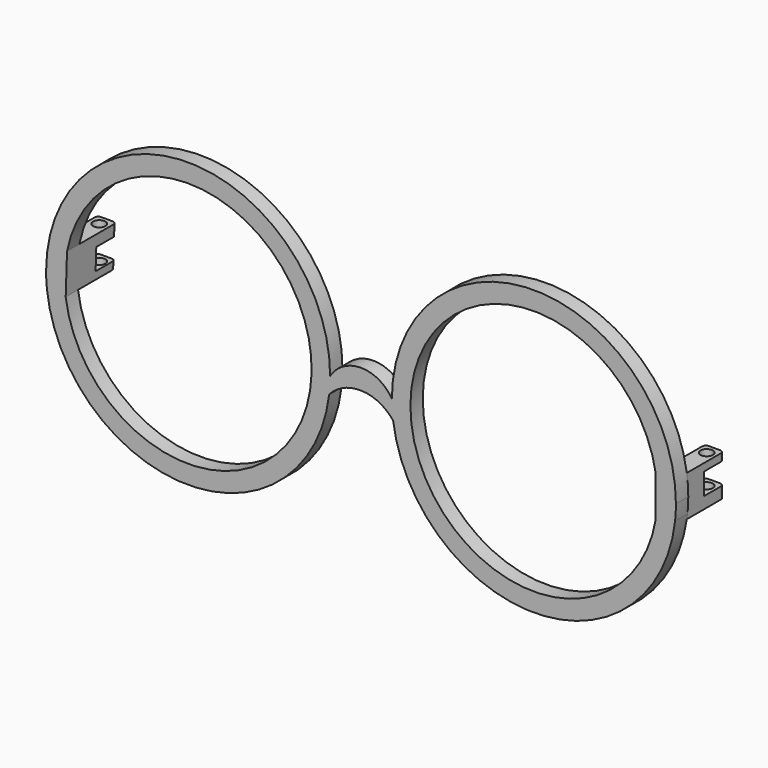
from build123d import *

# Parameters (mm, degrees)
F1_DEPTH = 3.175
F2_W     = 3.8559212309
F2_H     = 8.382
F3_DEPTH = 12.7
F4_W     = 5.08
F4_H     = 4.445
F5_DEPTH = 129.2387778288
F6_R     = 1.27
F7_DEPTH = 33.402
F8_R     = 1.27
F9_DEPTH = 34.2152275192
F10_R    = 0.762
F11_R    = 0.762


with BuildPart() as f1:
    # F0 (on Front) → F1 (new body)
    with BuildSketch(Plane.XZ):
        with BuildLine():
            ThreePointArc((-18.1050305715, -3.3733308155), (-17.9584921143, -1.6894938048), (-17.9095913851, 0))
            ThreePointArc((-17.9095913851, 0), (-47.1195913851, 29.21), (-76.3295913851, 0))
            Line((-76.3295913851, 0), (-72.5195913851, 0))
            ThreePointArc((-72.5195913851, 0), (-47.1195913851, 25.4), (-21.7195913851, 0))
            ThreePointArc((-21.7195913851, 0), (-45.5289694065, -25.3501463846), (-72.320372623, -3.175))
            Line((-72.320372623, -3.175), (-76.1565243327, -3.175))
            ThreePointArc((-76.1565243327, -3.175), (-47.2193857045, -29.2098295287), (-18.1050305715, -3.3733308155))
        make_face()
        with BuildLine():
            ThreePointArc((-5.2095913851, 0), (-11.5595913851, 3.5657379151), (-17.9095913851, 0))
            ThreePointArc((-17.9095913851, 0), (-17.9584921143, -1.6894938048), (-18.1050305715, -3.3733308155))
            ThreePointArc((-18.1050305715, -3.3733308155), (-11.412472054, -0.5582261258), (-4.9519179152, -3.871290288))
            ThreePointArc((-4.9519179152, -3.871290288), (-5.1451018279, -1.9399280986), (-5.2095913851, 0))
        make_face()
        with BuildLine():
            Line((-72.5195913851, 0), (-76.3295913851, 0))
            ThreePointArc((-76.3295913851, 0), (-76.2862925304, -1.589856692), (-76.1565243327, -3.175))
            Line((-76.1565243327, -3.175), (-72.320372623, -3.175))
            ThreePointArc((-72.320372623, -3.175), (-72.4697377697, -1.5906219786), (-72.5195913851, 0))
        make_face()
        with BuildLine():
            ThreePointArc((53.2104086149, 0), (24.0004086149, 29.21), (-5.2095913851, 0))
            ThreePointArc((-5.2095913851, 0), (-5.1451018279, -1.9399280986), (-4.9519179152, -3.871290288))
            ThreePointArc((-4.9519179152, -3.871290288), (24.3511144785, -29.2078945732), (53.0373415624, -3.175))
            Line((53.0373415624, -3.175), (49.2011898528, -3.175))
            ThreePointArc((49.2011898528, -3.175), (-1.3497377697, 1.5906219786), (49.4004086149, 0))
            Line((49.4004086149, 0), (53.2104086149, 0))
        make_face()
        with BuildLine():
            ThreePointArc((53.0373415624, -3.175), (53.1671097602, -1.589856692), (53.2104086149, 0))
            Line((53.2104086149, 0), (49.4004086149, 0))
            ThreePointArc((49.4004086149, 0), (49.3505549995, -1.5906219786), (49.2011898528, -3.175))
            Line((49.2011898528, -3.175), (53.0373415624, -3.175))
        make_face()
    extrude(amount=F1_DEPTH)

    # F2 (on face) → F3 (join)
    with BuildSketch(Plane.XZ.offset(3.175)):
        with Locations((50.9802258282, 0)):
            Rectangle(F2_W, F2_H)
        Polygon((-75.8977394655, 5.0042275192), (-76.1340230485, -3.3744414722), (-72.2945916673, -3.3733308155), (-72.0217540811, 5.0042275192), align=None)
    extrude(amount=-F3_DEPTH)

    # F4 (on face) → F5 (cut, through all)
    with BuildSketch(Plane.YZ.offset(52.9081864437)):
        with Locations((6.985, 0.4219774121)):
            Rectangle(F4_W, F4_H)
    extrude(amount=-F5_DEPTH, mode=Mode.SUBTRACT)

    # F6 (on face) → F7 (cut, through all)
    with BuildSketch(Plane.XY.offset(4.191)):
        with Locations((51.0031864437, 7.4931297261)):
            Circle(F6_R)
    extrude(amount=-F7_DEPTH, mode=Mode.SUBTRACT)

    # F8 (on face) → F9 (cut, through all)
    with BuildSketch(Plane.XY.offset(5.0042275192)):
        with Locations((-73.9267540811, 7.4932678616)):
            Circle(F8_R)
    extrude(amount=-F9_DEPTH, mode=Mode.SUBTRACT)

    # F10
    f10_edges = [f1.edges().sort_by_distance(p)[0] for p in [
        (49.052265, 9.525, 3.417739),
        (52.908186, 9.525, 3.417739),
        (52.908186, 9.525, -2.995761),
        (49.052265, 9.525, -2.995761),
    ]]
    fillet(f10_edges, radius=F10_R)

    # F11
    f11_edges = [f1.edges().sort_by_distance(p)[0] for p in [
        (-76.11183, 9.525, -2.587482),
        (-75.931013, 9.525, 3.824352),
        (-72.06018, 9.525, 3.824352),
        (-72.26898, 9.525, -2.586927),
    ]]
    fillet(f11_edges, radius=F11_R)


solid = f1.part
